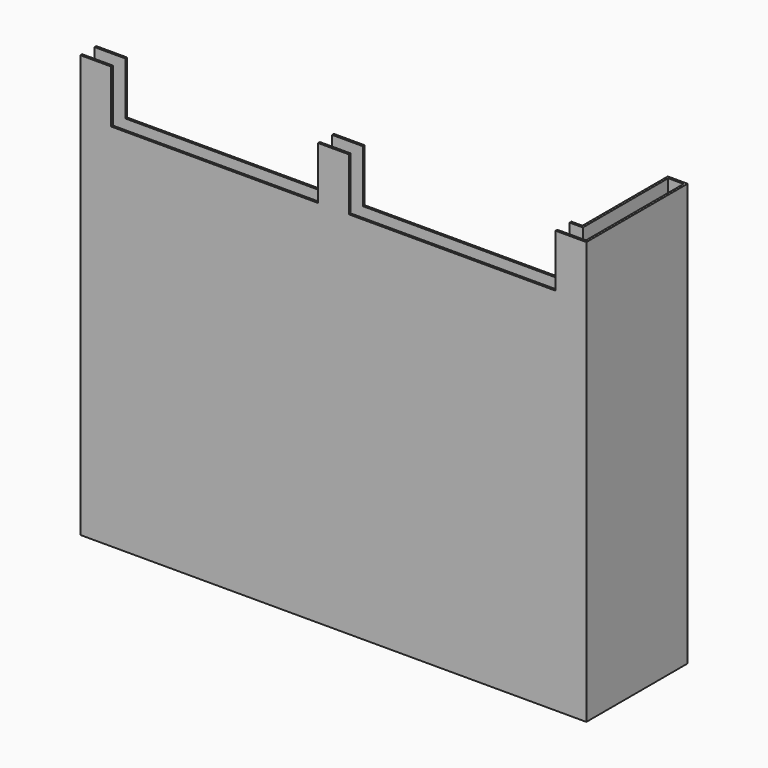
from build123d import *

# Parameters (mm, degrees)
F1_DEPTH = 2438.4
F2_W     = 1193.8
F2_H     = 304.8
F3_DEPTH = 730.251
F5_T     = -12.7


with BuildPart() as f1:
    # F0 (on Top) → F1 (new body)
    with BuildSketch(Plane.XY):
        Polygon((0, 114.3), (0, 0), (2921, 0), (2921, 730.25), (2806.7, 730.25), (2806.7, 114.3), align=None)
    extrude(amount=F1_DEPTH)

    # F2 (on face) → F3 (cut, through all)
    with BuildSketch(Plane.XZ):
        with Locations((774.7, 2286)):
            Rectangle(F2_W, F2_H)
        with Locations((2146.3, 2286)):
            Rectangle(F2_W, F2_H)
    extrude(amount=-F3_DEPTH, mode=Mode.SUBTRACT)

    # F5
    f5_openings = [f1.faces().sort_by_distance(p)[0] for p in [
        (88.9, 57.15, 2438.4),
        (1460.5, 57.15, 2438.4),
        (2856.738, 340.487, 2438.4),
        (0, 57.15, 1219.2),
        (1403.35, 84.191021, 0),
        (177.8, 57.15, 2286),
        (774.7, 57.15, 2133.6),
        (1549.4, 57.15, 2286),
        (2146.3, 57.15, 2133.6),
        (1371.6, 57.15, 2286),
        (2743.2, 57.15, 2286),
    ]]
    offset(amount=F5_T, openings=f5_openings, kind=Kind.INTERSECTION)


solid = f1.part
